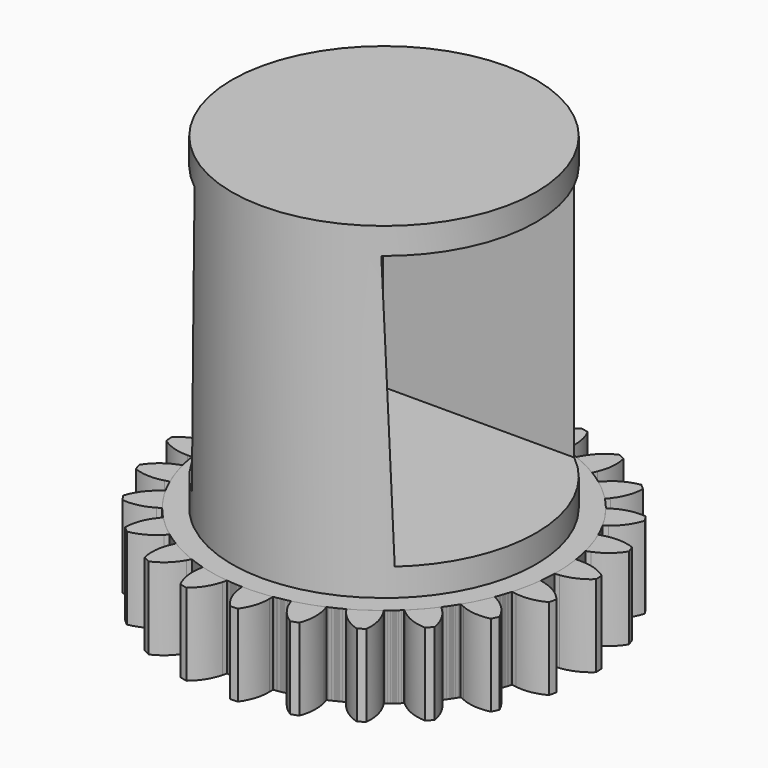
from build123d import *

# Parameters (mm, degrees)
F1_DEPTH = 1
F2_COUNT = 24
F2_ANGLE = 345
F3_R     = 1.857227
F4_DEPTH = 5
F6_DEPTH = 12.5


with BuildPart() as f1:
    # F0 (on Top) → F1 (new body)
    with BuildSketch(Plane.XY):
        with BuildLine():
            ThreePointArc((-0.316589, 2.091171), (-1.379065, -1.60356), (2.115, 0))
            ThreePointArc((2.115, 0), (1.509977, 1.480944), (0.041056, 2.114601))
            ThreePointArc((0.041056, 2.114601), (-0.138264, 2.110476), (-0.316589, 2.091171))
        make_face()
        with BuildLine():
            ThreePointArc((-0.316589, 2.091171), (-0.138264, 2.110476), (0.041056, 2.114601))
            Line((0.041056, 2.114601), (0.034499, 2.170416))
            ThreePointArc((0.034499, 2.170416), (-0.015129, 2.346146), (-0.117686, 2.497228))
            ThreePointArc((-0.117686, 2.497228), (-0.16351, 2.494677), (-0.209274, 2.491225))
            ThreePointArc((-0.209274, 2.491225), (-0.291234, 2.328049), (-0.3175, 2.147345))
            Line((-0.3175, 2.147345), (-0.316589, 2.091171))
        make_face()
    extrude(amount=F1_DEPTH)


with BuildPart() as f2_1:
    # F2: instance of F1
    add(f1.part.rotate(Axis((0, 0, 0), (0, 0, -1)), 1 * F2_ANGLE / (F2_COUNT - 1)))


with BuildPart() as f2_2:
    # F2: instance of F1
    add(f1.part.rotate(Axis((0, 0, 0), (0, 0, -1)), 2 * F2_ANGLE / (F2_COUNT - 1)))


with BuildPart() as f2_3:
    # F2: instance of F1
    add(f1.part.rotate(Axis((0, 0, 0), (0, 0, -1)), 3 * F2_ANGLE / (F2_COUNT - 1)))


with BuildPart() as f2_4:
    # F2: instance of F1
    add(f1.part.rotate(Axis((0, 0, 0), (0, 0, -1)), 4 * F2_ANGLE / (F2_COUNT - 1)))


with BuildPart() as f2_5:
    # F2: instance of F1
    add(f1.part.rotate(Axis((0, 0, 0), (0, 0, -1)), 5 * F2_ANGLE / (F2_COUNT - 1)))


with BuildPart() as f2_6:
    # F2: instance of F1
    add(f1.part.rotate(Axis((0, 0, 0), (0, 0, -1)), 6 * F2_ANGLE / (F2_COUNT - 1)))


with BuildPart() as f2_7:
    # F2: instance of F1
    add(f1.part.rotate(Axis((0, 0, 0), (0, 0, -1)), 7 * F2_ANGLE / (F2_COUNT - 1)))


with BuildPart() as f2_8:
    # F2: instance of F1
    add(f1.part.rotate(Axis((0, 0, 0), (0, 0, -1)), 8 * F2_ANGLE / (F2_COUNT - 1)))


with BuildPart() as f2_9:
    # F2: instance of F1
    add(f1.part.rotate(Axis((0, 0, 0), (0, 0, -1)), 9 * F2_ANGLE / (F2_COUNT - 1)))


with BuildPart() as f2_10:
    # F2: instance of F1
    add(f1.part.rotate(Axis((0, 0, 0), (0, 0, -1)), 10 * F2_ANGLE / (F2_COUNT - 1)))


with BuildPart() as f2_11:
    # F2: instance of F1
    add(f1.part.rotate(Axis((0, 0, 0), (0, 0, -1)), 11 * F2_ANGLE / (F2_COUNT - 1)))


with BuildPart() as f2_12:
    # F2: instance of F1
    add(f1.part.rotate(Axis((0, 0, 0), (0, 0, -1)), 12 * F2_ANGLE / (F2_COUNT - 1)))


with BuildPart() as f2_13:
    # F2: instance of F1
    add(f1.part.rotate(Axis((0, 0, 0), (0, 0, -1)), 13 * F2_ANGLE / (F2_COUNT - 1)))


with BuildPart() as f2_14:
    # F2: instance of F1
    add(f1.part.rotate(Axis((0, 0, 0), (0, 0, -1)), 14 * F2_ANGLE / (F2_COUNT - 1)))


with BuildPart() as f2_15:
    # F2: instance of F1
    add(f1.part.rotate(Axis((0, 0, 0), (0, 0, -1)), 15 * F2_ANGLE / (F2_COUNT - 1)))


with BuildPart() as f2_16:
    # F2: instance of F1
    add(f1.part.rotate(Axis((0, 0, 0), (0, 0, -1)), 16 * F2_ANGLE / (F2_COUNT - 1)))


with BuildPart() as f2_17:
    # F2: instance of F1
    add(f1.part.rotate(Axis((0, 0, 0), (0, 0, -1)), 17 * F2_ANGLE / (F2_COUNT - 1)))


with BuildPart() as f2_18:
    # F2: instance of F1
    add(f1.part.rotate(Axis((0, 0, 0), (0, 0, -1)), 18 * F2_ANGLE / (F2_COUNT - 1)))


with BuildPart() as f2_19:
    # F2: instance of F1
    add(f1.part.rotate(Axis((0, 0, 0), (0, 0, -1)), 19 * F2_ANGLE / (F2_COUNT - 1)))


with BuildPart() as f2_20:
    # F2: instance of F1
    add(f1.part.rotate(Axis((0, 0, 0), (0, 0, -1)), 20 * F2_ANGLE / (F2_COUNT - 1)))


with BuildPart() as f2_21:
    # F2: instance of F1
    add(f1.part.rotate(Axis((0, 0, 0), (0, 0, -1)), 21 * F2_ANGLE / (F2_COUNT - 1)))


with BuildPart() as f2_22:
    # F2: instance of F1
    add(f1.part.rotate(Axis((0, 0, 0), (0, 0, -1)), 22 * F2_ANGLE / (F2_COUNT - 1)))


with BuildPart() as f2_23:
    # F2: instance of F1
    add(f1.part.rotate(Axis((0, 0, 0), (0, 0, -1)), 23 * F2_ANGLE / (F2_COUNT - 1)))


with BuildPart() as f4:
    # F3 (on Top) → F4 (new body)
    with BuildSketch(Plane.XY):
        Circle(F3_R)
    extrude(amount=F4_DEPTH)

    # F5 (on Right) → F6 (cut, symmetric)
    with BuildSketch(Plane.YZ):
        Polygon((1.444579, 4.67738), (-1.466273, 4.67738), (-1.384277, 1.33605), (1.444579, 1.33605), align=None)
    extrude(amount=F6_DEPTH, both=True, mode=Mode.SUBTRACT)


solid = Compound([f1.part, f2_1.part, f2_2.part, f2_3.part, f2_4.part, f2_5.part, f2_6.part, f2_7.part, f2_8.part, f2_9.part, f2_10.part, f2_11.part, f2_12.part, f2_13.part, f2_14.part, f2_15.part, f2_16.part, f2_17.part, f2_18.part, f2_19.part, f2_20.part, f2_21.part, f2_22.part, f2_23.part, f4.part])
